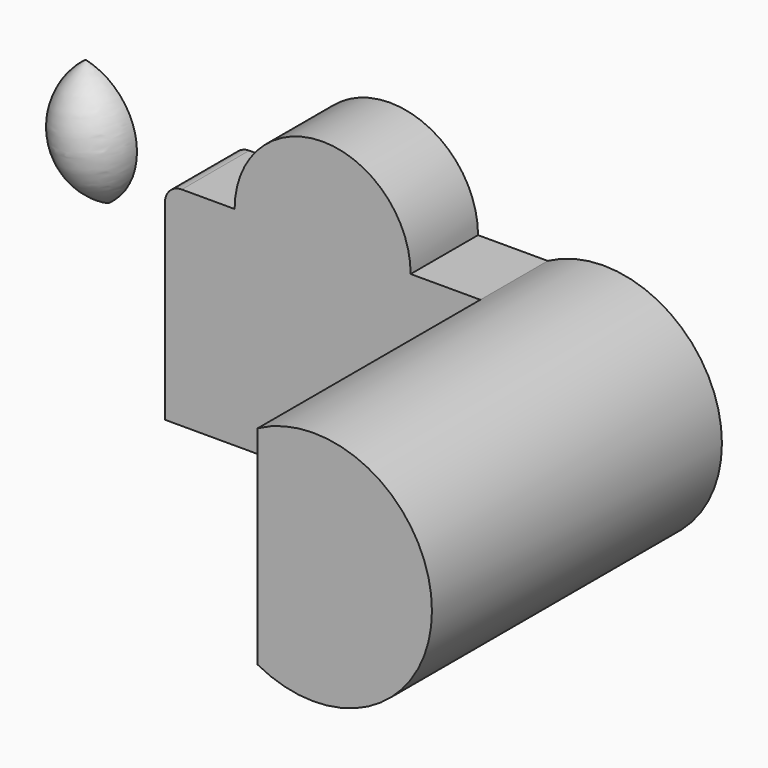
from build123d import *

# Parameters (mm, degrees)
F1_DEPTH = 25
F2_DEPTH = 67.56943
F3_DEPTH = 40
F5_ANGLE = 180


with BuildPart() as f1:
    # F0 (on Front) → F1 (new body)
    with BuildSketch(Plane.XZ):
        with BuildLine():
            Line((-22.4842395432, 31.121391803), (-38.1610532105, 31.121391803))
            ThreePointArc((-38.1610532105, 31.121391803), (-41.6965871164, 29.656925709), (-43.1610532105, 26.121391803))
            Line((-43.1610532105, 26.121391803), (-43.1610532105, -30.6670609862))
            Line((-43.1610532105, -30.6670609862), (50.4302829504, -30.6670609862))
            Line((50.4302829504, -30.6670609862), (50.4302829504, 31.121391803))
            Line((50.4302829504, 31.121391803), (29.7534692831, 31.121391803))
            ThreePointArc((29.7534692831, 31.121391803), (3.63461487, 57.2402462162), (-22.4842395432, 31.121391803))
        make_face()
    extrude(amount=F1_DEPTH)

    # F0 (on Front) → F2 (join)
    with BuildSketch(Plane.XZ):
        with BuildLine():
            ThreePointArc((50.4302829504, -30.6670609862), (102.1270157048, 0.2271654084), (50.4302829504, 31.121391803))
            Line((50.4302829504, 31.121391803), (50.4302829504, -30.6670609862))
        make_face()
    extrude(amount=F2_DEPTH)

    # F3 (add): a face of the model
    f3_faces = [f1.faces().sort_by_distance(p)[0] for p in [
        (73.4849703937, -67.56943, 0.2271654084),
    ]]
    extrude(f3_faces, amount=F3_DEPTH)


with BuildPart() as f5:
    # F4 (on face) → F5 (revolve)
    with BuildSketch(Plane.XZ.offset(25)):
        with BuildLine():
            Line((-66.6690021753, 55.7426698506), (-59.9734187126, 20.4386897385))
            ThreePointArc((-59.9734187126, 20.4386897385), (-51.8030270405, 40.2751631891), (-66.6690021753, 55.7426698506))
        make_face()
    revolve(axis=Axis((-63.321210444, -25, 38.0906797945), (0.1863336788, 0, -0.9824865191)), revolution_arc=F5_ANGLE)


solid = Compound([f1.part, f5.part])
